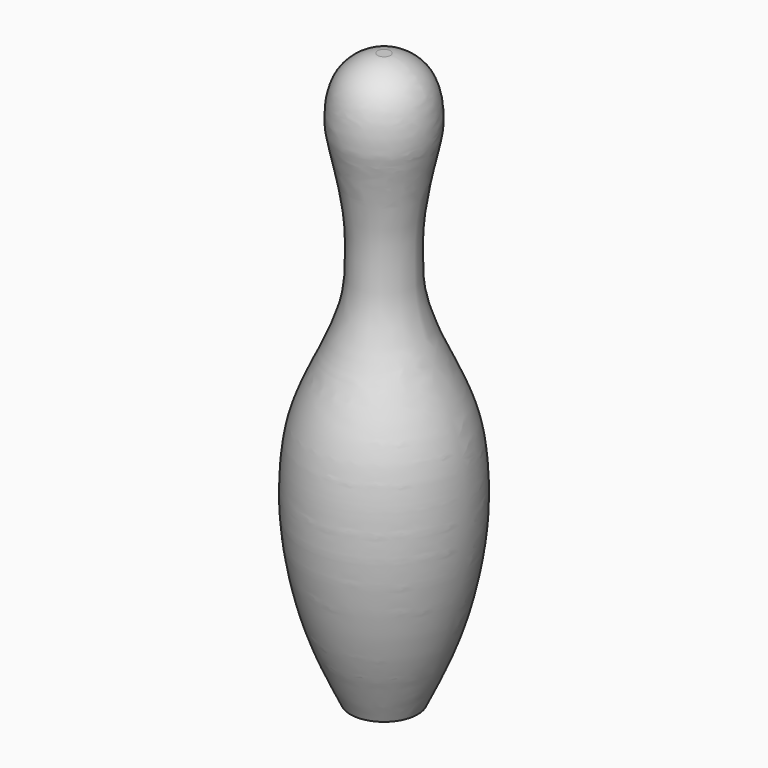
from build123d import *


with BuildPart() as f1:
    # F0 (on Front) → F1 (revolve)
    with BuildSketch(Plane.XZ):
        with BuildLine():
            Line((0, 89.7412076592), (0, 0))
            Line((0, 0), (5.2869501524, 0))
            add(Edge.make_bspline(
                [(1.0051872814, 89.7412076592), (1.9767102785, 89.7412076592), (6.7683969744, 87.7879464468), (7.6439540301, 80.2221630789), (6.5516169566, 76.0260311835), (4.7526514389, 67.2729453647), (4.7920637371, 62.0306380242), (4.7961190222, 54.2660407471), (11.363880633, 42.3257994089), (12.8613358665, 34.256871251), (13.0878409328, 23.7302954194), (10.2544714995, 10.3751824377), (6.894264119, 3.3570373526), (5.2869501524, 0)],
                knots=[0, 0, 0, 0, 0.0712249845, 0.1541840716, 0.2220192926, 0.3139852196, 0.3864960216, 0.4722584433, 0.5870831289, 0.6773348289, 0.7777669443, 0.8936976909, 1, 1, 1, 1], degree=3))
            Line((1.0051872814, 89.7412076592), (0, 89.7412076592))
        make_face()
    revolve(axis=Axis((0, 0, 44.8706038296), (0, 0, -1)))


solid = f1.part
